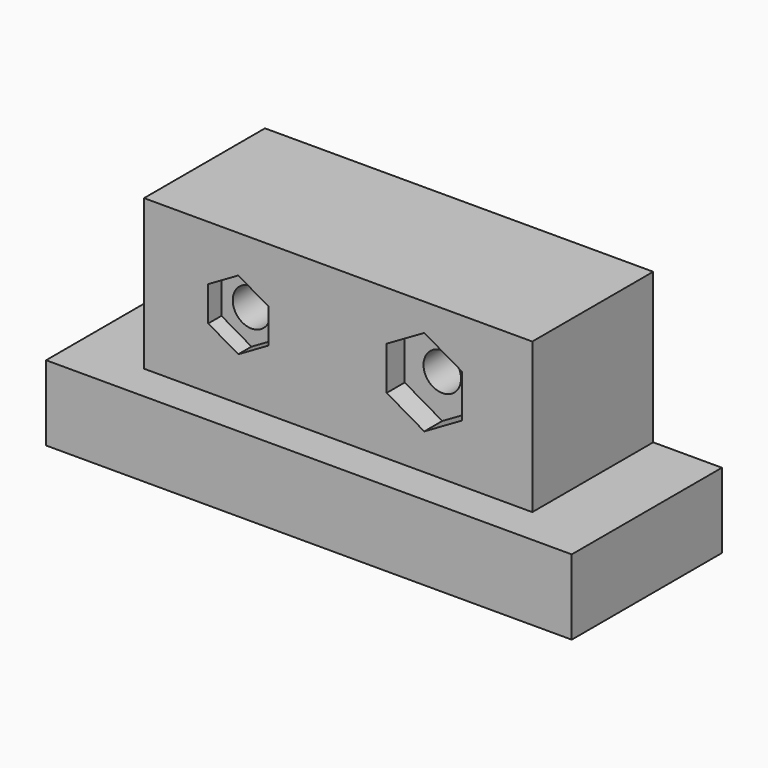
from build123d import *

# Parameters (mm, degrees)
F0_W      = 70
F0_H      = 50
F1_DEPTH  = 10
F2_W      = 51.701616
F2_H      = 40.25942
F3_DEPTH  = 20
F5_DEPTH  = 2.2
F6_R      = 2.5
F7_DEPTH  = 42.93071
F9_DEPTH  = 3
F10_R     = 2.5
F11_DEPTH = 42.13071
F12_W     = 101.047278
F12_H     = 53.498119
F13_DEPTH = 30.001


with BuildPart() as f1:
    # F0 (on Top) → F1 (new body)
    with BuildSketch(Plane.XY):
        Rectangle(F0_W, F0_H)
    extrude(amount=F1_DEPTH)

    # F2 (on face) → F3 (join)
    with BuildSketch(Plane.XY.offset(10)):
        Rectangle(F2_W, F2_H)
    extrude(amount=F3_DEPTH)

    # F4 (on face) → F5 (cut)
    with BuildSketch(Plane.XZ.offset(20.12971)):
        Polygon((-9.302341, 18.084529), (-9.302341, 22.703331), (-13.302341, 25.012733), (-17.302341, 22.703331), (-17.302341, 18.084529), (-13.302341, 15.775128), align=None)
    extrude(amount=-F5_DEPTH, mode=Mode.SUBTRACT)

    # F6 (on face) → F7 (cut, through all)
    with BuildSketch(Plane.XZ.offset(17.92971)):
        with Locations((-13.302341, 20.39393)):
            Circle(F6_R)
    extrude(amount=-F7_DEPTH, mode=Mode.SUBTRACT)

    # F8 (on face) → F9 (cut)
    with BuildSketch(Plane.XZ.offset(20.12971)):
        Polygon((16.465587, 17.672712), (16.465587, 23.446215), (11.465587, 26.332966), (6.465587, 23.446215), (6.465587, 17.672712), (11.465587, 14.785961), align=None)
    extrude(amount=-F9_DEPTH, mode=Mode.SUBTRACT)

    # F10 (on face) → F11 (cut, through all)
    with BuildSketch(Plane.XZ.offset(17.12971)):
        with Locations((11.465587, 20.559464)):
            Circle(F10_R)
    extrude(amount=-F11_DEPTH, mode=Mode.SUBTRACT)

    # F12 (on Top) → F13 (cut, through all)
    with BuildSketch(Plane.XY):
        with Locations((0, 26.749059)):
            Rectangle(F12_W, F12_H)
    extrude(amount=F13_DEPTH, mode=Mode.SUBTRACT)


solid = f1.part
